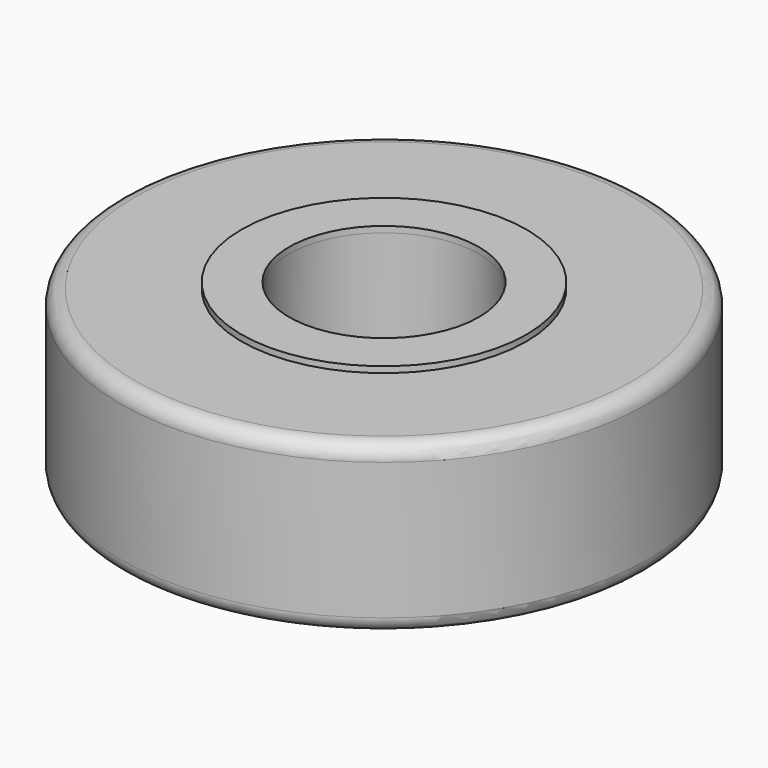
from build123d import *

# Parameters (mm, degrees)
F0_R          = 11.0236
F0_R_2        = 5.842
F0_R_3        = 3.9624
F1_DEPTH      = 6.985
F2_R          = 0.635
F3_R          = 5.9436
F3_R_2        = 3.9624
F4_DEPTH      = 0.254
F4_DEPTH_BACK = 7.239


with BuildPart() as f1:
    # F0 (on Top) → F1 (new body)
    with BuildSketch(Plane.XY):
        Circle(F0_R)
        Circle(F0_R_2, mode=Mode.SUBTRACT)
        Circle(F0_R_2)
        Circle(F0_R_3, mode=Mode.SUBTRACT)
    extrude(amount=F1_DEPTH)

    # F2
    f2_edges = [f1.edges().sort_by_distance(p)[0] for p in [
        (-11.0236, 0, 0),
        (-11.0236, 0, 6.985),
    ]]
    fillet(f2_edges, radius=F2_R)

    # F3 (on face) → F4 (join, two sides)
    with BuildSketch(Plane.XY.offset(6.985)) as f4_sk:
        Circle(F3_R)
        Circle(F3_R_2, mode=Mode.SUBTRACT)
    extrude(amount=F4_DEPTH)
    extrude(f4_sk.sketch, amount=-F4_DEPTH_BACK)


solid = f1.part
